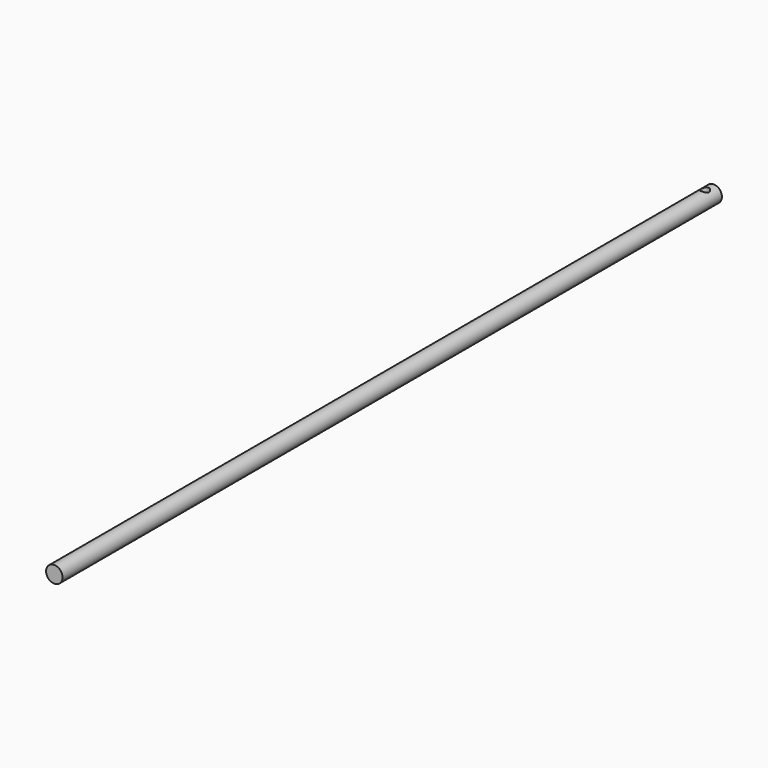
from build123d import *

# Parameters (mm, degrees)
F0_R     = 0.381
F1_DEPTH = 38.1
F3_R     = 0.1905
F4_DEPTH = 25.4


with BuildPart() as f1:
    # F0 (on Front) → F1 (new body)
    with BuildSketch(Plane.XZ):
        Circle(F0_R)
    extrude(amount=-F1_DEPTH)

    # F3 (on offset) → F4 (cut)
    with BuildSketch(Plane.XY.offset(0.762)):
        with Locations((0, 37.592)):
            Circle(F3_R)
    extrude(amount=-F4_DEPTH, mode=Mode.SUBTRACT)


solid = f1.part
